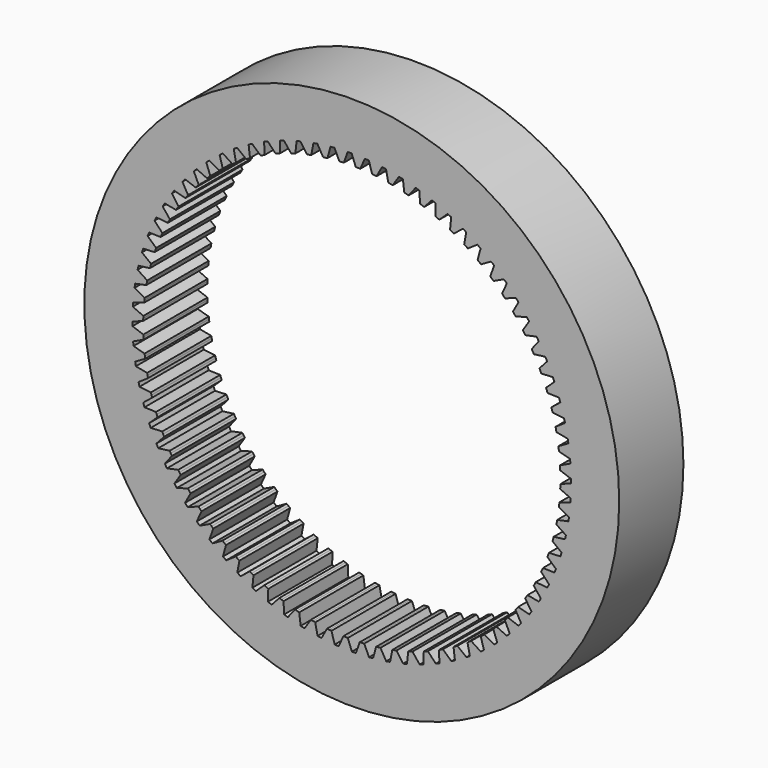
from build123d import *

# Parameters (mm, degrees)
F0_R     = 100
F1_DEPTH = 15


with BuildPart() as f1:
    # F0 (on Front) → F1 (new body, symmetric)
    with BuildSketch(Plane.XZ):
        Circle(F0_R)
        Polygon((25.512415, 73.709678), (26.294707, 73.434245), (27.074027, 73.15051), (29.963469, 76.329487), (31.33943, 75.774931), (31.216964, 71.480775), (31.975234, 71.144813), (32.729889, 70.800807), (35.859844, 73.743282), (37.188054, 73.082478), (36.729049, 68.811169), (37.458623, 68.416749), (38.183961, 68.014595), (41.535131, 70.702425), (42.807401, 69.939448), (42.014688, 65.717319), (42.711067, 65.266874), (43.402617, 64.809049), (46.954341, 67.225664), (48.162826, 66.365218), (47.041292, 62.2183), (47.700182, 61.714606), (48.35368, 61.203935), (52.084061, 63.334434), (53.221311, 62.381825), (51.777871, 58.335685), (52.395211, 57.781847), (53.006627, 57.221477), (56.892666, 59.052727), (57.951669, 58.013827), (56.195222, 54.09341), (56.767205, 53.492844), (57.332771, 52.88623), (61.350508, 54.40694), (62.324736, 53.288154), (60.266111, 49.517632), (60.789211, 48.87404), (61.305439, 48.224923), (65.430104, 49.425716), (66.31355, 48.233942), (63.965439, 44.636561), (64.436431, 43.953911), (64.900139, 43.266292), (69.106302, 44.139767), (69.893518, 42.882352), (67.270399, 39.480291), (67.68638, 38.762792), (68.094707, 38.04091), (72.356437, 38.58168), (73.042571, 37.266377), (70.160615, 34.080612), (70.519019, 33.332687), (70.869449, 32.580994), (75.16047, 32.785725), (75.741291, 31.420643), (72.618267, 28.470814), (72.916884, 27.697075), (73.207258, 26.920204), (77.501113, 26.787636), (77.973041, 25.381191), (74.628204, 22.685484), (74.865194, 21.890701), (75.093719, 21.093443), (79.363937, 20.624391), (79.724062, 19.185255), (76.178032, 16.760291), (76.351934, 15.949364), (76.517203, 15.136634), (80.737456, 14.33399), (80.983557, 12.871035), (77.258198, 10.731765), (77.367939, 9.909694), (77.468932, 9.086502), (81.613201, 7.955215), (81.743761, 6.477462), (77.862042, 4.637075), (77.906945, 3.808927), (77.94304, 2.980349), (81.985774, 1.527394), (81.999988, 0.043952), (77.98584, -1.486205), (77.965629, -2.315323), (77.936603, -3.144179), (81.852877, -4.909844), (81.750658, -6.389828), (77.628829, -7.600322), (77.543629, -8.425298), (77.449661, -9.249322), (81.21533, -11.316811), (80.997308, -12.784213), (76.793211, -13.667581), (76.643546, -14.483329), (76.485216, -15.29744), (80.077063, -17.654007), (79.744582, -19.099779), (75.484137, -19.650574), (75.270931, -20.452065), (75.049215, -21.251244), (78.445095, -23.882359), (78.000205, -25.297589), (73.709678, -25.512415), (73.434245, -26.294707), (73.15051, -27.074027), (76.329487, -29.963469), (75.774931, -31.33943), (71.480775, -31.216964), (71.144813, -31.975234), (70.800807, -32.729889), (73.743282, -35.859844), (73.082478, -37.188054), (68.811169, -36.729049), (68.416749, -37.458623), (68.014595, -38.183961), (70.702425, -41.535131), (69.939448, -42.807401), (65.717319, -42.014688), (65.266874, -42.711067), (64.809049, -43.402617), (67.225664, -46.954341), (66.365218, -48.162826), (62.2183, -47.041292), (61.714606, -47.700182), (61.203935, -48.35368), (63.334434, -52.084061), (62.381825, -53.221311), (58.335685, -51.777871), (57.781847, -52.395211), (57.221477, -53.006627), (59.052727, -56.892666), (58.013827, -57.951669), (54.09341, -56.195222), (53.492844, -56.767205), (52.88623, -57.332771), (54.40694, -61.350508), (53.288154, -62.324736), (49.517632, -60.266111), (48.87404, -60.789211), (48.224923, -61.305439), (49.425716, -65.430104), (48.233942, -66.31355), (44.636561, -63.965439), (43.953911, -64.436431), (43.266292, -64.900139), (44.139767, -69.106302), (42.882352, -69.893518), (39.480291, -67.270399), (38.762792, -67.68638), (38.04091, -68.094707), (38.58168, -72.356437), (37.266377, -73.042571), (34.080612, -70.160615), (33.332687, -70.519019), (32.580994, -70.869449), (32.785725, -75.16047), (31.420643, -75.741291), (28.470814, -72.618267), (27.697075, -72.916884), (26.920204, -73.207258), (26.787636, -77.501113), (25.381191, -77.973041), (22.685484, -74.628204), (21.890701, -74.865194), (21.093443, -75.093719), (20.624391, -79.363937), (19.185255, -79.724062), (16.760291, -76.178032), (15.949364, -76.351934), (15.136634, -76.517203), (14.33399, -80.737456), (12.871035, -80.983557), (10.731765, -77.258198), (9.909694, -77.367939), (9.086502, -77.468932), (7.955215, -81.613201), (6.477462, -81.743761), (4.637075, -77.862042), (3.808927, -77.906945), (2.980349, -77.94304), (1.527394, -81.985774), (0.043952, -81.999988), (-1.486205, -77.98584), (-2.315323, -77.965629), (-3.144179, -77.936603), (-4.909844, -81.852877), (-6.389828, -81.750658), (-7.600322, -77.628829), (-8.425298, -77.543629), (-9.249322, -77.449661), (-11.316811, -81.21533), (-12.784213, -80.997308), (-13.667581, -76.793211), (-14.483329, -76.643546), (-15.29744, -76.485216), (-17.654007, -80.077063), (-19.099779, -79.744582), (-19.650574, -75.484137), (-20.452065, -75.270931), (-21.251244, -75.049215), (-23.882359, -78.445095), (-25.297589, -78.000205), (-25.512415, -73.709678), (-26.294707, -73.434245), (-27.074027, -73.15051), (-29.963469, -76.329487), (-31.33943, -75.774931), (-31.216964, -71.480775), (-31.975234, -71.144813), (-32.729889, -70.800807), (-35.859844, -73.743282), (-37.188054, -73.082478), (-36.729049, -68.811169), (-37.458623, -68.416749), (-38.183961, -68.014595), (-41.535131, -70.702425), (-42.807401, -69.939448), (-42.014688, -65.717319), (-42.711067, -65.266874), (-43.402617, -64.809049), (-46.954341, -67.225664), (-48.162826, -66.365218), (-47.041292, -62.2183), (-47.700182, -61.714606), (-48.35368, -61.203935), (-52.084061, -63.334434), (-53.221311, -62.381825), (-51.777871, -58.335685), (-52.395211, -57.781847), (-53.006627, -57.221477), (-56.892666, -59.052727), (-57.951669, -58.013827), (-56.195222, -54.09341), (-56.767205, -53.492844), (-57.332771, -52.88623), (-61.350508, -54.40694), (-62.324736, -53.288154), (-60.266111, -49.517632), (-60.789211, -48.87404), (-61.305439, -48.224923), (-65.430104, -49.425716), (-66.31355, -48.233942), (-63.965439, -44.636561), (-64.436431, -43.953911), (-64.900139, -43.266292), (-69.106302, -44.139767), (-69.893518, -42.882352), (-67.270399, -39.480291), (-67.68638, -38.762792), (-68.094707, -38.04091), (-72.356437, -38.58168), (-73.042571, -37.266377), (-70.160615, -34.080612), (-70.519019, -33.332687), (-70.869449, -32.580994), (-75.16047, -32.785725), (-75.741291, -31.420643), (-72.618267, -28.470814), (-72.916884, -27.697075), (-73.207258, -26.920204), (-77.501113, -26.787636), (-77.973041, -25.381191), (-74.628204, -22.685484), (-74.865194, -21.890701), (-75.093719, -21.093443), (-79.363937, -20.624391), (-79.724062, -19.185255), (-76.178032, -16.760291), (-76.351934, -15.949364), (-76.517203, -15.136634), (-80.737456, -14.33399), (-80.983557, -12.871035), (-77.258198, -10.731765), (-77.367939, -9.909694), (-77.468932, -9.086502), (-81.613201, -7.955215), (-81.743761, -6.477462), (-77.862042, -4.637075), (-77.906945, -3.808927), (-77.94304, -2.980349), (-81.985774, -1.527394), (-81.999988, -0.043952), (-77.98584, 1.486205), (-77.965629, 2.315323), (-77.936603, 3.144179), (-81.852877, 4.909844), (-81.750658, 6.389828), (-77.628829, 7.600322), (-77.543629, 8.425298), (-77.449661, 9.249322), (-81.21533, 11.316811), (-80.997308, 12.784213), (-76.793211, 13.667581), (-76.643546, 14.483329), (-76.485216, 15.29744), (-80.077063, 17.654007), (-79.744582, 19.099779), (-75.484137, 19.650574), (-75.270931, 20.452065), (-75.049215, 21.251244), (-78.445095, 23.882359), (-78.000205, 25.297589), (-73.709678, 25.512415), (-73.434245, 26.294707), (-73.15051, 27.074027), (-76.329487, 29.963469), (-75.774931, 31.33943), (-71.480775, 31.216964), (-71.144813, 31.975234), (-70.800807, 32.729889), (-73.743282, 35.859844), (-73.082478, 37.188054), (-68.811169, 36.729049), (-68.416749, 37.458623), (-68.014595, 38.183961), (-70.702425, 41.535131), (-69.939448, 42.807401), (-65.717319, 42.014688), (-65.266874, 42.711067), (-64.809049, 43.402617), (-67.225664, 46.954341), (-66.365218, 48.162826), (-62.2183, 47.041292), (-61.714606, 47.700182), (-61.203935, 48.35368), (-63.334434, 52.084061), (-62.381825, 53.221311), (-58.335685, 51.777871), (-57.781847, 52.395211), (-57.221477, 53.006627), (-59.052727, 56.892666), (-58.013827, 57.951669), (-54.09341, 56.195222), (-53.492844, 56.767205), (-52.88623, 57.332771), (-54.40694, 61.350508), (-53.288154, 62.324736), (-49.517632, 60.266111), (-48.87404, 60.789211), (-48.224923, 61.305439), (-49.425716, 65.430104), (-48.233942, 66.31355), (-44.636561, 63.965439), (-43.953911, 64.436431), (-43.266292, 64.900139), (-44.139767, 69.106302), (-42.882352, 69.893518), (-39.480291, 67.270399), (-38.762792, 67.68638), (-38.04091, 68.094707), (-38.58168, 72.356437), (-37.266377, 73.042571), (-34.080612, 70.160615), (-33.332687, 70.519019), (-32.580994, 70.869449), (-32.785725, 75.16047), (-31.420643, 75.741291), (-28.470814, 72.618267), (-27.697075, 72.916884), (-26.920204, 73.207258), (-26.787636, 77.501113), (-25.381191, 77.973041), (-22.685484, 74.628204), (-21.890701, 74.865194), (-21.093443, 75.093719), (-20.624391, 79.363937), (-19.185255, 79.724062), (-16.760291, 76.178032), (-15.949364, 76.351934), (-15.136634, 76.517203), (-14.33399, 80.737456), (-12.871035, 80.983557), (-10.731765, 77.258198), (-9.909694, 77.367939), (-9.086502, 77.468932), (-7.955215, 81.613201), (-6.477462, 81.743761), (-4.637075, 77.862042), (-3.808927, 77.906945), (-2.980349, 77.94304), (-1.527394, 81.985774), (-0.043952, 81.999988), (1.486205, 77.98584), (2.315323, 77.965629), (3.144179, 77.936603), (4.909844, 81.852877), (6.389828, 81.750658), (7.600322, 77.628829), (8.425298, 77.543629), (9.249322, 77.449661), (11.316811, 81.21533), (12.784213, 80.997308), (13.667581, 76.793211), (14.483329, 76.643546), (15.29744, 76.485216), (17.654007, 80.077063), (19.099779, 79.744582), (19.650574, 75.484137), (20.452065, 75.270931), (21.251244, 75.049215), (23.882359, 78.445095), (25.297589, 78.000205), align=None, mode=Mode.SUBTRACT)
    extrude(amount=F1_DEPTH, both=True)


solid = f1.part
